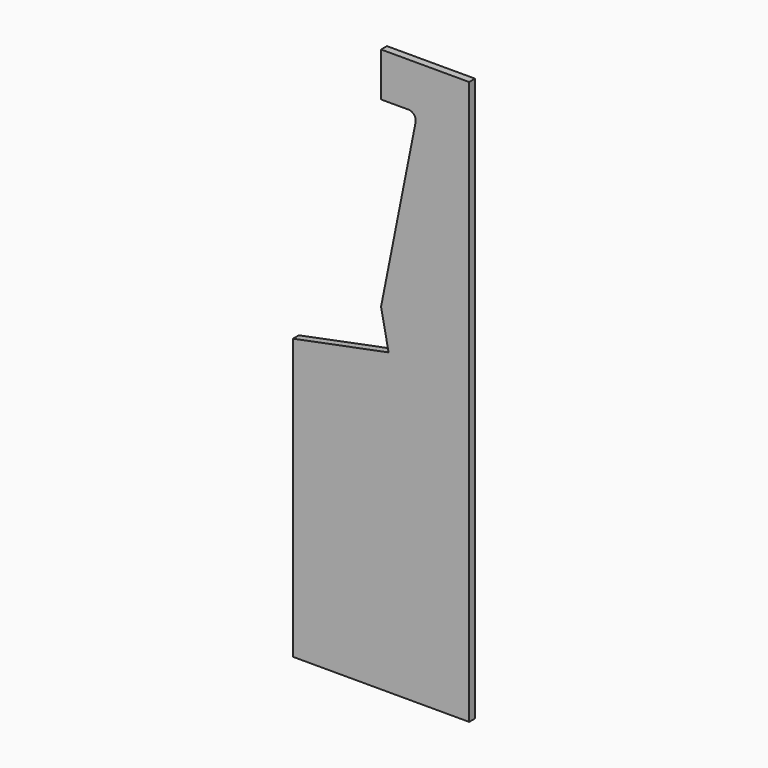
from build123d import *

# Parameters (mm, degrees)
F1_DEPTH = 25.4


with BuildPart() as f1:
    # F0 (on Front) → F1 (new body)
    with BuildSketch(Plane.XZ):
        with BuildLine():
            Line((0, 1111.318166), (0, 958.918166))
            Line((0, 958.918166), (94.60594, 958.918166))
            ThreePointArc((94.60594, 958.918166), (114.240405, 949.631756), (119.517886, 928.562872))
            Line((119.517886, 928.562872), (0, 327.705884))
            Line((0, 327.705884), (26.015294, 196.918166))
            Line((26.015294, 196.918166), (-304.8, 131.114913))
            Line((-304.8, 131.114913), (-304.8, -838.2))
            Line((-304.8, -838.2), (304.8, -838.2))
            Line((304.8, -838.2), (304.8, 1111.318166))
            Line((304.8, 1111.318166), (0, 1111.318166))
        make_face()
    extrude(amount=F1_DEPTH)


solid = f1.part
